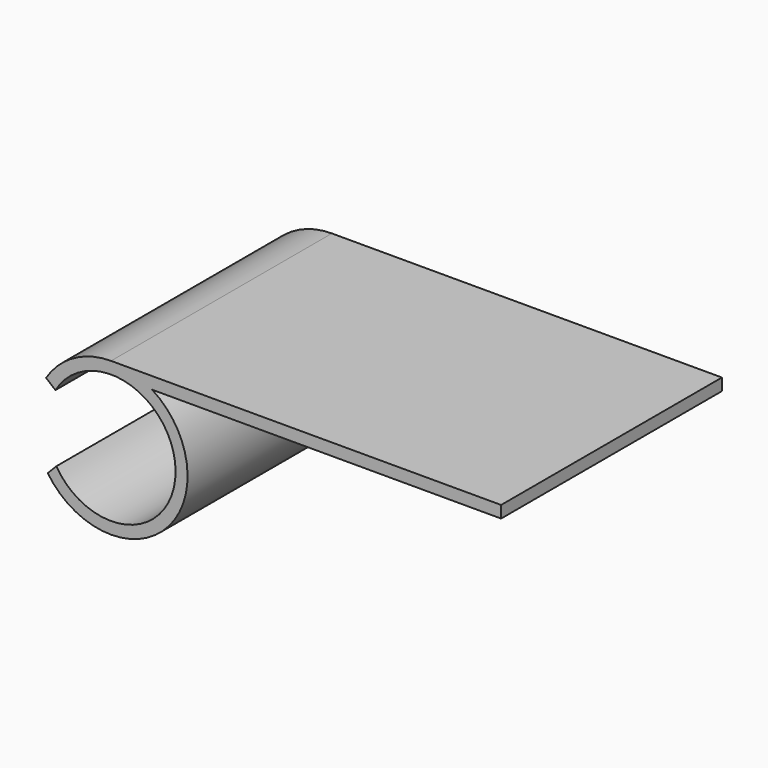
from build123d import *

# Parameters (mm, degrees)
F1_DEPTH = 46


with BuildPart() as f1:
    # F0 (on Front) → F1 (new body)
    with BuildSketch(Plane.XZ):
        with BuildLine():
            ThreePointArc((-15.733881, 43.227494), (4.28348, 37.915884), (-15.594438, 32.104143))
            Line((-15.594438, 32.104143), (-17.024878, 30.635102))
            ThreePointArc((-17.024878, 30.635102), (2.671941, 28.889199), (0.389979, 48.531132))
            Line((0.389979, 48.531132), (58.534325, 48.531132))
            Line((58.534325, 48.531132), (58.534325, 50.531132))
            Line((58.534325, 50.531132), (-6.465675, 50.531132))
            ThreePointArc((-6.465675, 50.531132), (-12.661991, 48.924209), (-17.296424, 44.508492))
            Line((-17.296424, 44.508492), (-15.733881, 43.227494))
        make_face()
    extrude(amount=F1_DEPTH)


solid = f1.part
